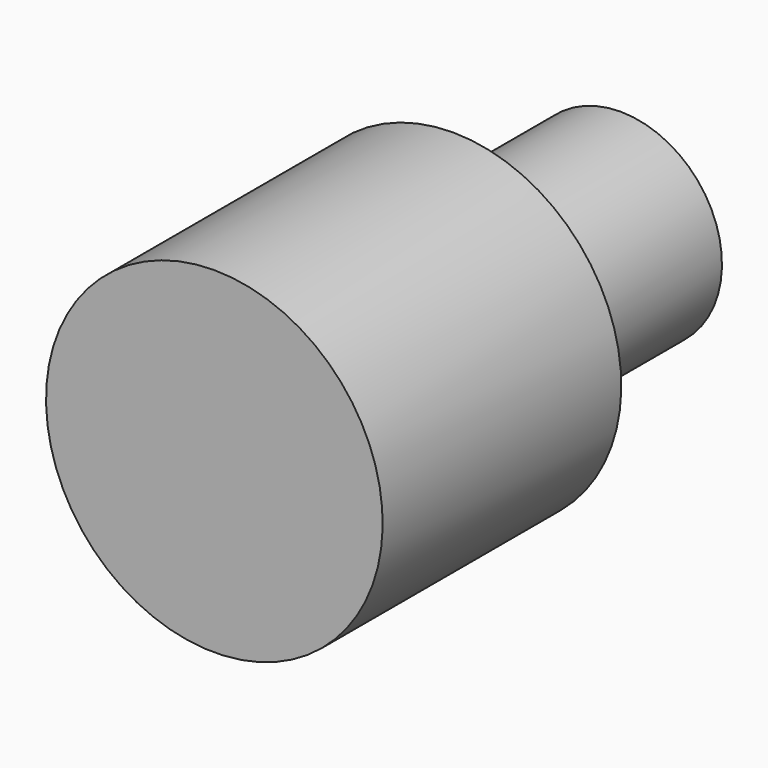
from build123d import *

# Parameters (mm, degrees)
F0_W = 28.637225
F0_H = 13.847764


with BuildPart() as f1:
    # F0 (on Right) → F1 (revolve)
    with BuildSketch(Plane.YZ):
        Polygon((-40.761717, 0), (0, 0), (0, 13.847764), (0, 23.000415), (-40.761717, 23.000415), align=None)
        with Locations((14.318612, 6.923882)):
            Rectangle(F0_W, F0_H)
    revolve(axis=Axis((0, -20.380858, 0), (0, -1, 0)))


solid = f1.part
